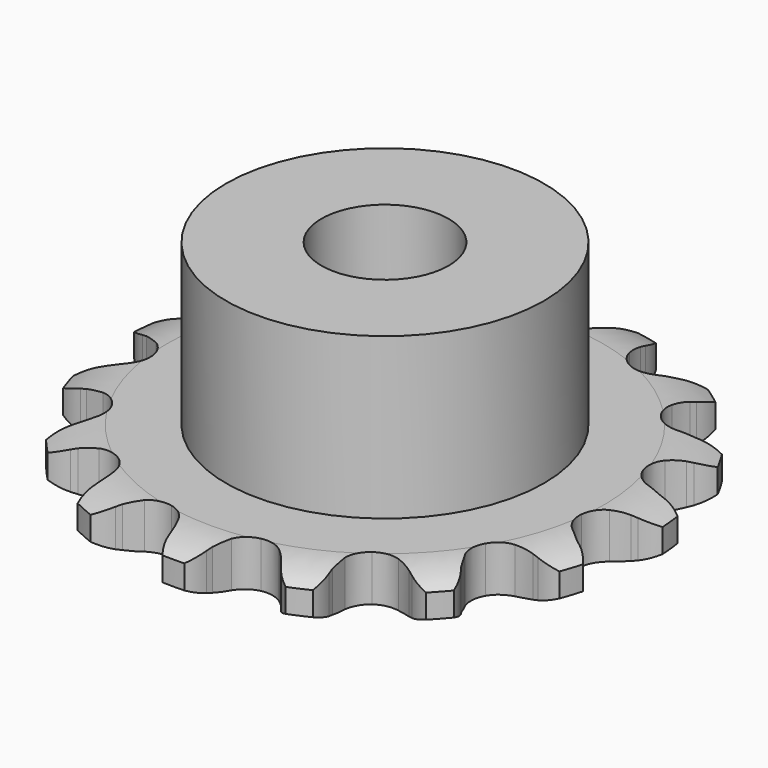
from build123d import *

# Parameters (mm, degrees)
PAD_DEPTH         = 2.9
SKETCH001_R       = 10
PAD001_DEPTH      = 13
SKETCH002_R       = 4
POCKET_DEPTH      = 0.0010001
POCKET_DEPTH_BACK = 13.001


with BuildPart() as part:
    # Sprocket → Pad (new body)
    with BuildSketch(Plane.XY):
        with BuildLine():
            ThreePointArc((-3.5868467908, 16.8747874101), (-2.6713529253, 16.318176519), (-2.0407426406, 15.4519921446))
            Line((-2.0407426406, 15.4519921446), (-1.8868892414, 15.1180028264))
            ThreePointArc((-1.8868892414, 15.1180028264), (-1.6311055532, 14.6429609659), (-1.3183115517, 14.2033588992))
            ThreePointArc((-1.3183115517, 14.2033588992), (-0.7302974991, 13.7398059975), (0, 13.5745565446))
            ThreePointArc((0, 13.5745565446), (0.7302974991, 13.7398059975), (1.3183115517, 14.2033588992))
            ThreePointArc((1.3183115517, 14.2033588992), (1.6311055532, 14.6429609659), (1.8868892414, 15.1180028264))
            Line((1.8868892414, 15.1180028264), (2.0407426406, 15.4519921446))
            ThreePointArc((2.0407426406, 15.4519921446), (2.6713529253, 16.318176519), (3.5868467908, 16.8747874101))
            ThreePointArc((3.5868467908, 16.8747874101), (4.1967980078, 15.9939331573), (4.4205802442, 14.9461420462))
            Line((4.4205802442, 14.9461420462), (4.425286624, 14.5784498066))
            ThreePointArc((4.425286624, 14.5784498066), (4.4657397189, 14.040440874), (4.5726889892, 13.5116196207))
            ThreePointArc((4.5726889892, 13.5116196207), (4.9213226049, 12.8489761111), (5.5212695602, 12.4009744708))
            ThreePointArc((5.5212695602, 12.4009744708), (6.2556425309, 12.2548986046), (6.9813640489, 12.4392083906))
            Line((6.9813640489, 12.4392083906), (7.8728048152, 13.0435158147))
            ThreePointArc((7.8728048152, 13.0435158147), (8.0084316555, 13.1677152528), (8.1492025832, 13.2860524242))
            ThreePointArc((8.1492025832, 13.2860524242), (9.0776026692, 13.8208589147), (10.1403419768, 13.9569833643))
            ThreePointArc((10.1403419768, 13.9569833643), (10.3392844386, 12.9041934523), (10.117544645, 11.8559682066))
            Line((10.117544645, 11.8559682066), (9.9722902297, 11.5181503742))
            ThreePointArc((9.9722902297, 11.5181503742), (9.7904180236, 11.0102010017), (9.6730300624, 10.4835985606))
            ThreePointArc((9.6730300624, 10.4835985606), (9.7220013217, 9.7364415258), (10.0878614542, 9.0831512517))
            ThreePointArc((10.0878614542, 9.0831512517), (10.6993301384, 8.6510079108), (11.4372752783, 8.5242057445))
            Line((11.4372752783, 8.5242057445), (12.4974409142, 8.7136864221))
            ThreePointArc((12.4974409142, 8.7136864221), (12.6718586606, 8.7719838489), (12.8485913661, 8.8228335397))
            ThreePointArc((12.8485913661, 8.8228335397), (13.9142524441, 8.9337892454), (14.9404799129, 8.6258900995))
            ThreePointArc((14.9404799129, 8.6258900995), (14.6940146606, 7.5832014686), (14.0650936617, 6.715789756))
            Line((14.0650936617, 6.715789756), (13.7949942593, 6.466258103))
            ThreePointArc((13.7949942593, 6.466258103), (13.4222441089, 6.0761973516), (13.100816361, 5.6428680688))
            ThreePointArc((13.100816361, 5.6428680688), (12.8416576883, 4.940387748), (12.9101704575, 4.1947686634))
            ThreePointArc((12.9101704575, 4.1947686634), (13.2930063647, 3.5512793573), (13.9155777077, 3.1352904853))
            Line((13.9155777077, 3.1352904853), (14.9611559435, 2.8771814857))
            ThreePointArc((14.9611559435, 2.8771814857), (15.1442061831, 2.8594967465), (15.3263419759, 2.8340665832))
            ThreePointArc((15.3263419759, 2.8340665832), (16.3450015644, 2.5019862546), (17.1572731421, 1.8033020728))
            ThreePointArc((17.1572731421, 1.8033020728), (16.5080162568, 0.9510050596), (15.580660207, 0.4143902456))
            Line((15.580660207, 0.4143902456), (15.2324184578, 0.2962910616))
            ThreePointArc((15.2324184578, 0.2962910616), (14.7332422505, 0.0915639789), (14.2633524936, -0.1735655759))
            ThreePointArc((14.2633524936, -0.1735655759), (13.7408747779, -0.7099039536), (13.5001937035, -1.4189275351))
            ThreePointArc((13.5001937035, -1.4189275351), (13.5882010273, -2.1624976595), (13.9877503324, -2.7957449821))
            Line((13.9877503324, -2.7957449821), (14.8379511923, -3.4568142679))
            ThreePointArc((14.8379511923, -3.4568142679), (14.9979828757, -3.5474233211), (15.1540288227, -3.6447362322))
            ThreePointArc((15.1540288227, -3.6447362322), (15.9495514245, -4.3624328894), (16.407417976, -5.3310932647))
            ThreePointArc((16.407417976, -5.3310932647), (15.4676318716, -5.8456287637), (14.4021890566, -5.9586611029))
            Line((14.4021890566, -5.9586611029), (14.0360191229, -5.924907396))
            ThreePointArc((14.0360191229, -5.924907396), (13.4967289597, -5.9089016376), (12.9596254016, -5.9599881557))
            ThreePointArc((12.9596254016, -5.9599881557), (12.2641697864, -6.2374468122), (11.7559108127, -6.7872782723))
            ThreePointArc((11.7559108127, -6.7872782723), (11.5338722873, -7.5023591852), (11.6413138499, -8.2433707435))
            Line((11.6413138499, -8.2433707435), (12.1491298814, -9.1930954304))
            ThreePointArc((12.1491298814, -9.1930954304), (12.2584720767, -9.3409616691), (12.361446416, -9.4933310416))
            ThreePointArc((12.361446416, -9.4933310416), (12.7962789463, -10.4725477553), (12.8205711852, -11.5436941454))
            ThreePointArc((12.8205711852, -11.5436941454), (11.7527534168, -11.6315002679), (10.7334485785, -11.301405814))
            Line((10.7334485785, -11.301405814), (10.4126645683, -11.1216355387))
            ThreePointArc((10.4126645683, -11.1216355387), (9.9265086178, -10.8876644802), (9.4150613432, -10.7158746386))
            ThreePointArc((9.4150613432, -10.7158746386), (8.6668784224, -10.6864784516), (7.9789241433, -10.9820469357))
            ThreePointArc((7.9789241433, -10.9820469357), (7.485232247, -11.5449946511), (7.2819884447, -12.2656428147))
            Line((7.2819884447, -12.2656428147), (7.3596136426, -13.3398068764))
            ThreePointArc((7.3596136426, -13.3398068764), (7.399360091, -13.5193628845), (7.4314576237, -13.7004426698))
            ThreePointArc((7.4314576237, -13.7004426698), (7.4304135876, -14.7718639743), (7.0169311653, -15.7602854371))
            ThreePointArc((7.0169311653, -15.7602854371), (6.0057171258, -15.406179707), (5.2087973309, -14.6900347898))
            Line((5.2087973309, -14.6900347898), (4.9888657138, -14.3953318599))
            ThreePointArc((4.9888657138, -14.3953318599), (4.6399047564, -13.9838512229), (4.2425476454, -13.6188890459))
            ThreePointArc((4.2425476454, -13.6188890459), (3.571005043, -13.2877208831), (2.8223090033, -13.2779199151))
            ThreePointArc((2.8223090033, -13.2779199151), (2.1423275499, -13.5913956588), (1.6635410827, -14.1670738134))
            Line((1.6635410827, -14.1670738134), (1.297553345, -15.1799445251))
            ThreePointArc((1.297553345, -15.1799445251), (1.2608315244, -15.3601434377), (1.2165022957, -15.5386232957))
            ThreePointArc((1.2165022957, -15.5386232957), (0.7797622165, -16.5169907139), (0, -17.2517801991))
            ThreePointArc((0, -17.2517801991), (-0.7797622165, -16.5169907139), (-1.2165022957, -15.5386232957))
            Line((-1.2165022957, -15.5386232957), (-1.297553345, -15.1799445251))
            ThreePointArc((-1.297553345, -15.1799445251), (-1.4489807896, -14.6621030499), (-1.6635410827, -14.1670738134))
            ThreePointArc((-1.6635410827, -14.1670738134), (-2.1423275499, -13.5913956588), (-2.8223090033, -13.2779199151))
            ThreePointArc((-2.8223090033, -13.2779199151), (-3.571005043, -13.2877208831), (-4.2425476454, -13.6188890459))
            Line((-4.2425476454, -13.6188890459), (-4.9888657138, -14.3953318599))
            ThreePointArc((-4.9888657138, -14.3953318599), (-5.0957062671, -14.545015648), (-5.2087973309, -14.6900347898))
            ThreePointArc((-5.2087973309, -14.6900347898), (-6.0057171258, -15.406179707), (-7.0169311653, -15.7602854371))
            ThreePointArc((-7.0169311653, -15.7602854371), (-7.4304135876, -14.7718639743), (-7.4314576237, -13.7004426698))
            Line((-7.4314576237, -13.7004426698), (-7.3596136426, -13.3398068764))
            ThreePointArc((-7.3596136426, -13.3398068764), (-7.2873243934, -12.8051440585), (-7.2819884447, -12.2656428147))
            ThreePointArc((-7.2819884447, -12.2656428147), (-7.485232247, -11.5449946511), (-7.9789241433, -10.9820469357))
            ThreePointArc((-7.9789241433, -10.9820469357), (-8.6668784224, -10.6864784516), (-9.4150613432, -10.7158746386))
            Line((-9.4150613432, -10.7158746386), (-10.4126645683, -11.1216355387))
            ThreePointArc((-10.4126645683, -11.1216355387), (-10.5711501519, -11.2149225154), (-10.7334485785, -11.301405814))
            ThreePointArc((-10.7334485785, -11.301405814), (-11.7527534168, -11.6315002679), (-12.8205711852, -11.5436941454))
            ThreePointArc((-12.8205711852, -11.5436941454), (-12.7962789463, -10.4725477553), (-12.361446416, -9.4933310416))
            Line((-12.361446416, -9.4933310416), (-12.1491298814, -9.1930954304))
            ThreePointArc((-12.1491298814, -9.1930954304), (-11.8656234064, -8.7340593283), (-11.6413138499, -8.2433707435))
            ThreePointArc((-11.6413138499, -8.2433707435), (-11.5338722873, -7.5023591852), (-11.7559108127, -6.7872782723))
            ThreePointArc((-11.7559108127, -6.7872782723), (-12.2641697864, -6.2374468122), (-12.9596254016, -5.9599881557))
            Line((-12.9596254016, -5.9599881557), (-14.0360191229, -5.924907396))
            ThreePointArc((-14.0360191229, -5.924907396), (-14.2187461396, -5.9456673955), (-14.4021890566, -5.9586611029))
            ThreePointArc((-14.4021890566, -5.9586611029), (-15.4676318716, -5.8456287637), (-16.407417976, -5.3310932647))
            ThreePointArc((-16.407417976, -5.3310932647), (-15.9495514245, -4.3624328894), (-15.1540288227, -3.6447362322))
            Line((-15.1540288227, -3.6447362322), (-14.8379511923, -3.4568142679))
            ThreePointArc((-14.8379511923, -3.4568142679), (-14.3922483367, -3.1527763938), (-13.9877503324, -2.7957449821))
            ThreePointArc((-13.9877503324, -2.7957449821), (-13.5882010273, -2.1624976595), (-13.5001937035, -1.4189275351))
            ThreePointArc((-13.5001937035, -1.4189275351), (-13.7408747779, -0.7099039536), (-14.2633524936, -0.1735655759))
            Line((-14.2633524936, -0.1735655759), (-15.2324184578, 0.2962910616))
            ThreePointArc((-15.2324184578, 0.2962910616), (-15.4077917465, 0.3516476317), (-15.580660207, 0.4143902456))
            ThreePointArc((-15.580660207, 0.4143902456), (-16.5080162568, 0.9510050596), (-17.1572731421, 1.8033020728))
            ThreePointArc((-17.1572731421, 1.8033020728), (-16.3450015644, 2.5019862546), (-15.3263419759, 2.8340665832))
            Line((-15.3263419759, 2.8340665832), (-14.9611559435, 2.8771814857))
            ThreePointArc((-14.9611559435, 2.8771814857), (-14.43032278, 2.9736502213), (-13.9155777077, 3.1352904853))
            ThreePointArc((-13.9155777077, 3.1352904853), (-13.2930063647, 3.5512793573), (-12.9101704575, 4.1947686634))
            ThreePointArc((-12.9101704575, 4.1947686634), (-12.8416576883, 4.940387748), (-13.100816361, 5.6428680688))
            Line((-13.100816361, 5.6428680688), (-13.7949942593, 6.466258103))
            ThreePointArc((-13.7949942593, 6.466258103), (-13.932690185, 6.5881595888), (-14.0650936617, 6.715789756))
            ThreePointArc((-14.0650936617, 6.715789756), (-14.6940146606, 7.5832014686), (-14.9404799129, 8.6258900995))
            ThreePointArc((-14.9404799129, 8.6258900995), (-13.9142524441, 8.9337892454), (-12.8485913661, 8.8228335397))
            Line((-12.8485913661, 8.8228335397), (-12.4974409142, 8.7136864221))
            ThreePointArc((-12.4974409142, 8.7136864221), (-11.9732633193, 8.5859056983), (-11.4372752783, 8.5242057445))
            ThreePointArc((-11.4372752783, 8.5242057445), (-10.6993301384, 8.6510079108), (-10.0878614542, 9.0831512517))
            ThreePointArc((-10.0878614542, 9.0831512517), (-9.7220013217, 9.7364415258), (-9.6730300624, 10.4835985606))
            Line((-9.6730300624, 10.4835985606), (-9.9722902297, 11.5181503742))
            ThreePointArc((-9.9722902297, 11.5181503742), (-10.048499916, 11.6855189015), (-10.117544645, 11.8559682066))
            ThreePointArc((-10.117544645, 11.8559682066), (-10.3392844386, 12.9041934523), (-10.1403419768, 13.9569833643))
            ThreePointArc((-10.1403419768, 13.9569833643), (-9.0776026692, 13.8208589147), (-8.1492025832, 13.2860524242))
            Line((-8.1492025832, 13.2860524242), (-7.8728048152, 13.0435158147))
            ThreePointArc((-7.8728048152, 13.0435158147), (-7.445917857, 12.7135800796), (-6.9813640489, 12.4392083906))
            ThreePointArc((-6.9813640489, 12.4392083906), (-6.2556425309, 12.2548986046), (-5.5212695602, 12.4009744708))
            ThreePointArc((-5.5212695602, 12.4009744708), (-4.9213226049, 12.8489761111), (-4.5726889892, 13.5116196207))
            Line((-4.5726889892, 13.5116196207), (-4.425286624, 14.5784498066))
            ThreePointArc((-4.425286624, 14.5784498066), (-4.4268327238, 14.7623458364), (-4.4205802442, 14.9461420462))
            ThreePointArc((-4.4205802442, 14.9461420462), (-4.1967980078, 15.9939331573), (-3.5868467908, 16.8747874101))
        make_face()
    extrude(amount=PAD_DEPTH)

    # Sketch → Groove (revolve, cut)
    with BuildSketch(Plane.XZ):
        with BuildLine():
            Line((13.7396735578, 0), (16.65, 0))
            Line((19.5603264422, 0), (16.65, 0))
            Line((19.5603264422, 2.9), (19.5603264422, 0))
            Line((16.65, 2.9), (19.5603264422, 2.9))
            Line((13.7396735578, 2.9), (16.65, 2.9))
            ThreePointArc((16.65, 2.2), (15.2363365125, 2.7225396744), (13.7396735578, 2.9))
            Line((16.65, 0.7), (16.65, 2.2))
            ThreePointArc((13.7396735578, 0), (15.2363365125, 0.1774603256), (16.65, 0.7))
        make_face()
    revolve(axis=Axis((0, 0, 0), (0, 0, 1)), mode=Mode.SUBTRACT)

    # Sketch001 → Pad001 (join)
    with BuildSketch(Plane.XY):
        Circle(SKETCH001_R)
    extrude(amount=PAD001_DEPTH)

    # Sketch002 → Pocket (cut, two sides)
    with BuildSketch(Plane.XY) as pocket_sk:
        Circle(SKETCH002_R)
    extrude(amount=-POCKET_DEPTH, mode=Mode.SUBTRACT)
    extrude(pocket_sk.sketch, amount=POCKET_DEPTH_BACK, mode=Mode.SUBTRACT)


solid = part.part
